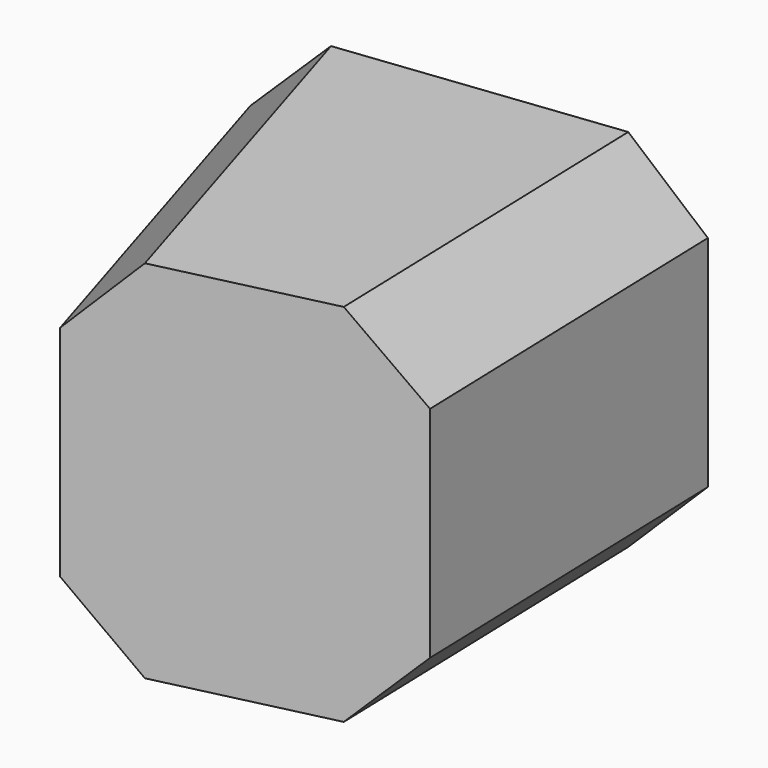
from build123d import *

# Parameters (mm, degrees)
PAD005_DEPTH    = 2.5
CHAMFER003_SIZE = 1


with BuildPart() as obj1:
    # Sketch → Pad005 (new body, symmetric)
    with BuildSketch(Plane.XY):
        Polygon((37.36659, 29.932996), (43.095788, 29.268148), (41.474087, 23.988274), (37.214632, 24.991065), align=None)
    extrude(amount=PAD005_DEPTH, both=True)

    # Chamfer003
    chamfer003_edges = [obj1.edges().sort_by_distance(p)[0] for p in [
        (42.284938, 26.628211, 2.5),
        (37.290611, 27.46203, 2.5),
        (42.284938, 26.628211, -2.5),
        (37.290611, 27.46203, -2.5),
    ]]
    chamfer(chamfer003_edges, length=CHAMFER003_SIZE)


with BuildPart() as part_mirroring001:
    # Part__Mirroring001: instance of obj1
    add(obj1.part.mirror(Plane(origin=(0, 0, 0), x_dir=(0, -1, 0), z_dir=(1, 0, 0))))


solid = part_mirroring001.part
